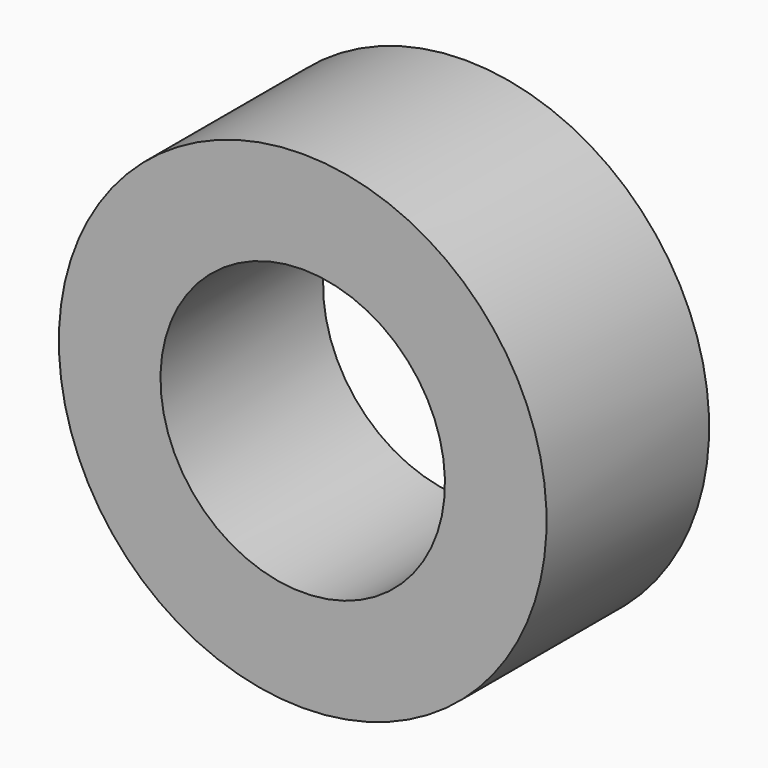
from build123d import *

# Parameters (mm, degrees)
F1_W = 5
F1_H = 2.5


with BuildPart() as f2:
    # F1 (on offset) → F2 (revolve)
    with BuildSketch(Plane.YZ.offset(25)):
        with Locations((2.5, 4.75)):
            Rectangle(F1_W, F1_H)
    revolve(axis=Axis((25, 7.09071, 0), (0, 1, 0)))


solid = f2.part
